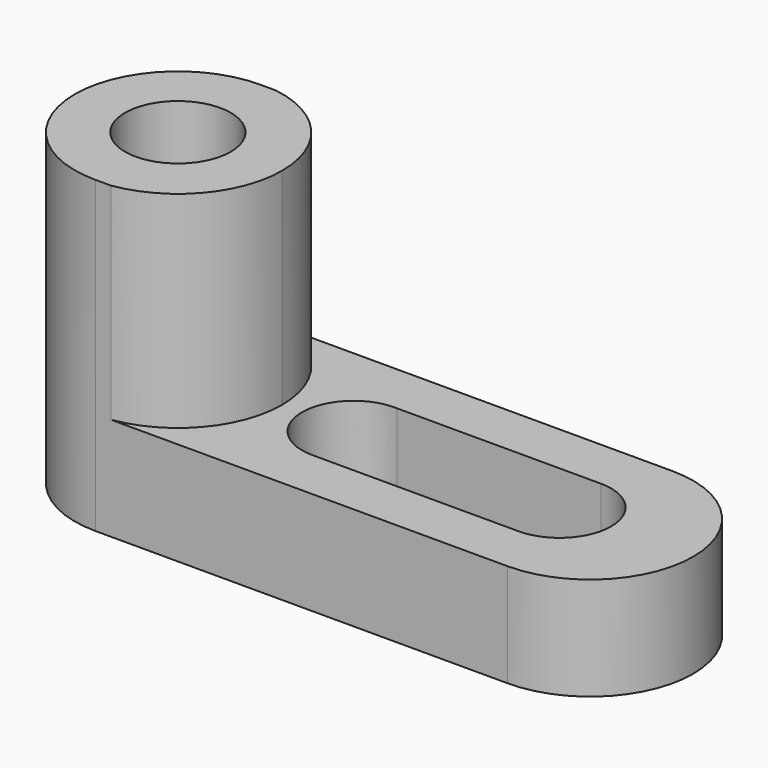
from build123d import *

# Parameters (mm, degrees)
F0_W     = 50.8
F0_H     = 25.4
F1_DEPTH = 12.7
F3_DEPTH = 25.4
F4_R     = 6.512394
F5_DEPTH = 38.1
F7_DEPTH = 12.7


with BuildPart() as f1:
    # F0 (on Top) → F1 (new body)
    with BuildSketch(Plane.XY):
        with Locations((1.222458, -12.7)):
            Rectangle(F0_W, F0_H)
        with BuildLine():
            Line((-24.177542, -25.4), (-24.177542, 0))
            ThreePointArc((-24.177542, 0), (-36.877542, -12.7), (-24.177542, -25.4))
        make_face()
        with BuildLine():
            ThreePointArc((26.622458, -25.4), (39.322458, -12.7), (26.622458, 0))
            Line((26.622458, 0), (26.622458, -25.4))
        make_face()
    extrude(amount=F1_DEPTH)

    # F2 (on face) → F3 (join)
    with BuildSketch(Plane.XY.offset(12.7)):
        with BuildLine():
            ThreePointArc((-22.280858, -25.4), (-14.450198, -21.082493), (-11.336692, -12.7))
            ThreePointArc((-11.336692, -12.7), (-14.450198, -4.317507), (-22.280858, 0))
            Line((-22.280858, 0), (-24.177542, 0))
            ThreePointArc((-24.177542, 0), (-36.877542, -12.7), (-24.177542, -25.4))
            Line((-24.177542, -25.4), (-22.280858, -25.4))
        make_face()
    extrude(amount=F3_DEPTH)

    # F4 (on face) → F5 (cut)
    with BuildSketch(Plane.XY.offset(38.1)):
        with Locations((-24.177542, -12.7)):
            Circle(F4_R)
    extrude(amount=-F5_DEPTH, mode=Mode.SUBTRACT)

    # F6 (on face) → F7 (cut)
    with BuildSketch(Plane.XY.offset(12.7)):
        with BuildLine():
            ThreePointArc((22.866193, -19.05), (29.216193, -12.7), (22.866193, -6.35))
            Line((22.866193, -6.35), (22.866193, -19.05))
        make_face()
        Polygon((22.866193, -6.35), (-2.269224, -6.35), (-2.533807, -19.05), (22.866193, -19.05), align=None)
        with BuildLine():
            Line((-2.533807, -19.05), (-2.269224, -6.35))
            ThreePointArc((-2.269224, -6.35), (-8.885185, -12.564924), (-2.533807, -19.05))
        make_face()
    extrude(amount=-F7_DEPTH, mode=Mode.SUBTRACT)


solid = f1.part
